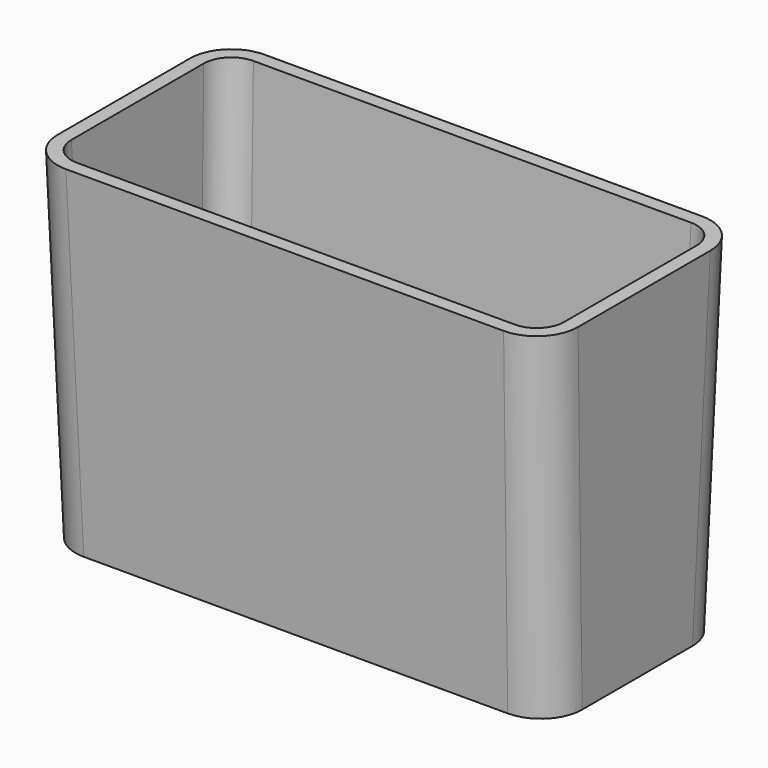
from build123d import *


with BuildPart() as f5:
    # F3 (on Top) → F5 section 0
    with BuildSketch(Plane.XY):
        with BuildLine():
            Line((31.75, 18), (-31.75, 18))
            ThreePointArc((-31.75, 18), (-35.992641, 16.242641), (-37.75, 12))
            Line((-37.75, 12), (-37.75, -12))
            ThreePointArc((-37.75, -12), (-35.992641, -16.242641), (-31.75, -18))
            Line((-31.75, -18), (31.75, -18))
            ThreePointArc((31.75, -18), (35.992641, -16.242641), (37.75, -12))
            Line((37.75, -12), (37.75, 12))
            ThreePointArc((37.75, 12), (35.992641, 16.242641), (31.75, 18))
        make_face()
    # F4 (on offset) → F5 section 1
    with BuildSketch(Plane.XY.offset(-50)):
        with BuildLine():
            Line((30.75, 16), (-30.75, 16))
            ThreePointArc((-30.75, 16), (-34.992641, 14.242641), (-36.75, 10))
            Line((-36.75, 10), (-36.75, -10))
            ThreePointArc((-36.75, -10), (-34.992641, -14.242641), (-30.75, -16))
            Line((-30.75, -16), (30.75, -16))
            ThreePointArc((30.75, -16), (34.992641, -14.242641), (36.75, -10))
            Line((36.75, -10), (36.75, 10))
            ThreePointArc((36.75, 10), (34.992641, 14.242641), (30.75, 16))
        make_face()
    loft()

    # F0 (on Top) → F6 section 0
    with BuildSketch(Plane.XY):
        with BuildLine():
            Line((31.75, 16), (-31.75, 16))
            ThreePointArc((-31.75, 16), (-34.578427, 14.828427), (-35.75, 12))
            Line((-35.75, 12), (-35.75, -12))
            ThreePointArc((-35.75, -12), (-34.578427, -14.828427), (-31.75, -16))
            Line((-31.75, -16), (31.75, -16))
            ThreePointArc((31.75, -16), (34.578427, -14.828427), (35.75, -12))
            Line((35.75, -12), (35.75, 12))
            ThreePointArc((35.75, 12), (34.578427, 14.828427), (31.75, 16))
        make_face()
    # F2 (on offset) → F6 section 1
    with BuildSketch(Plane.XY.offset(-50)):
        with BuildLine():
            Line((30.75, 14), (-30.75, 14))
            ThreePointArc((-30.75, 14), (-33.578427, 12.828427), (-34.75, 10))
            Line((-34.75, 10), (-34.75, -10))
            ThreePointArc((-34.75, -10), (-33.578427, -12.828427), (-30.75, -14))
            Line((-30.75, -14), (30.75, -14))
            ThreePointArc((30.75, -14), (33.578427, -12.828427), (34.75, -10))
            Line((34.75, -10), (34.75, 10))
            ThreePointArc((34.75, 10), (33.578427, 12.828427), (30.75, 14))
        make_face()
    loft(mode=Mode.SUBTRACT)


solid = f5.part
